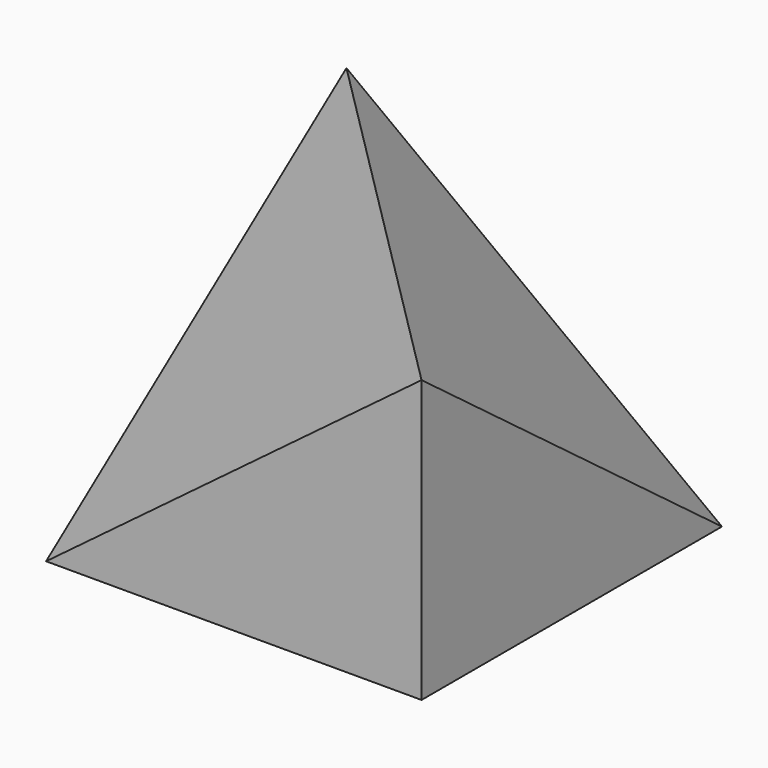
from build123d import *

# Parameters (mm, degrees)
F0_W     = 4
F0_H     = 4
F1_DEPTH = 3
F4_DEPTH = 25
F7_DEPTH = 25


with BuildPart() as f1:
    # F0 (on Top) → F1 (new body)
    with BuildSketch(Plane.XY):
        with Locations((2, 2)):
            Rectangle(F0_W, F0_H)
    extrude(amount=F1_DEPTH)

    # F3 (on 3pt) → F4 (cut)
    with BuildSketch(Plane(origin=(0, 0, 0), x_dir=(0.8574929257, -0.3086974533, 0.4115966043), z_dir=(-0.5144957554, -0.5144957554, 0.6859943406))):
        Polygon((4.6647615159, 1.8), (0, 5), (0, 0), align=None)
    extrude(amount=F4_DEPTH, mode=Mode.SUBTRACT)

    # F6 (on 3pt) → F7 (cut)
    with BuildSketch(Plane(origin=(2.1176470588, 2.1176470588, 2.8235294118), x_dir=(0.8574929257, -0.3086974533, -0.4115966043), z_dir=(-0.5144957554, -0.5144957554, -0.6859943406))):
        Polygon((2.1951818898, 1.8), (-2.4695796261, -1.4), (2.1951818898, -3.2), align=None)
    extrude(amount=-F7_DEPTH, mode=Mode.SUBTRACT)


solid = f1.part
